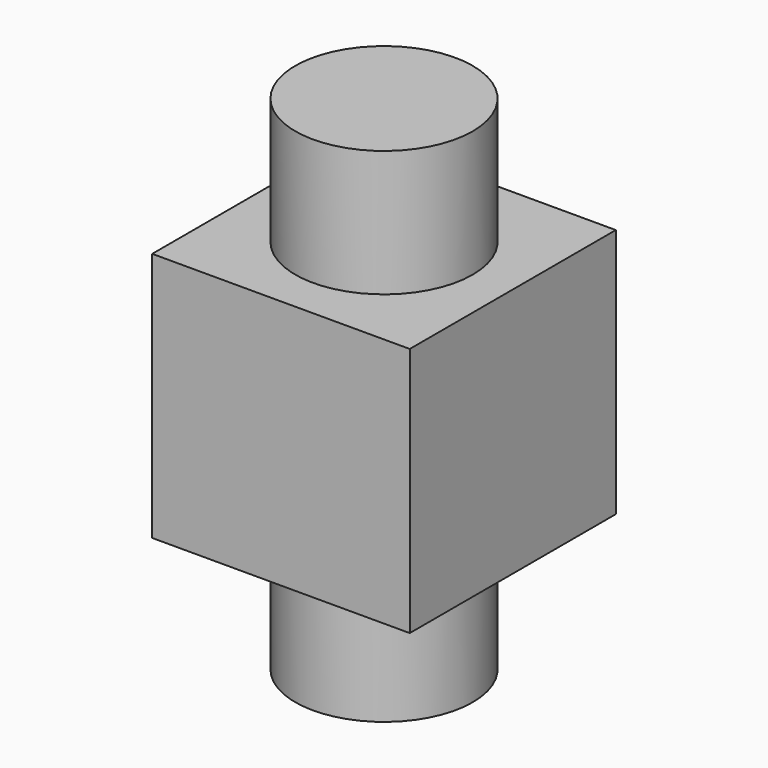
from build123d import *

# Parameters (mm, degrees)
F0_W          = 110.617
F0_H          = 110.617
F1_DEPTH      = 53.721
F1_DEPTH_BACK = 53.721
F2_R          = 38.1
F3_DEPTH      = 54.229
F4_R          = 38.1
F5_DEPTH      = 54.229


with BuildPart() as f1:
    # F0 (on Top) → F1 (new body, two sides)
    with BuildSketch(Plane.XY) as f1_sk:
        with Locations((55.3085, -55.3085)):
            Rectangle(F0_W, F0_H)
    extrude(amount=F1_DEPTH)
    extrude(f1_sk.sketch, amount=-F1_DEPTH_BACK)

    # F2 (on face) → F3 (join)
    with BuildSketch(Plane.XY.offset(53.721)):
        with Locations((55.3085, -55.3085)):
            Circle(F2_R)
    extrude(amount=F3_DEPTH)

    # F4 (on face) → F5 (join)
    with BuildSketch(Plane(origin=(0, 0, -53.721), x_dir=(1, 0, 0), z_dir=(0, 0, -1))):
        with Locations((55.3085, 55.3085)):
            Circle(F4_R)
    extrude(amount=F5_DEPTH)


solid = f1.part
